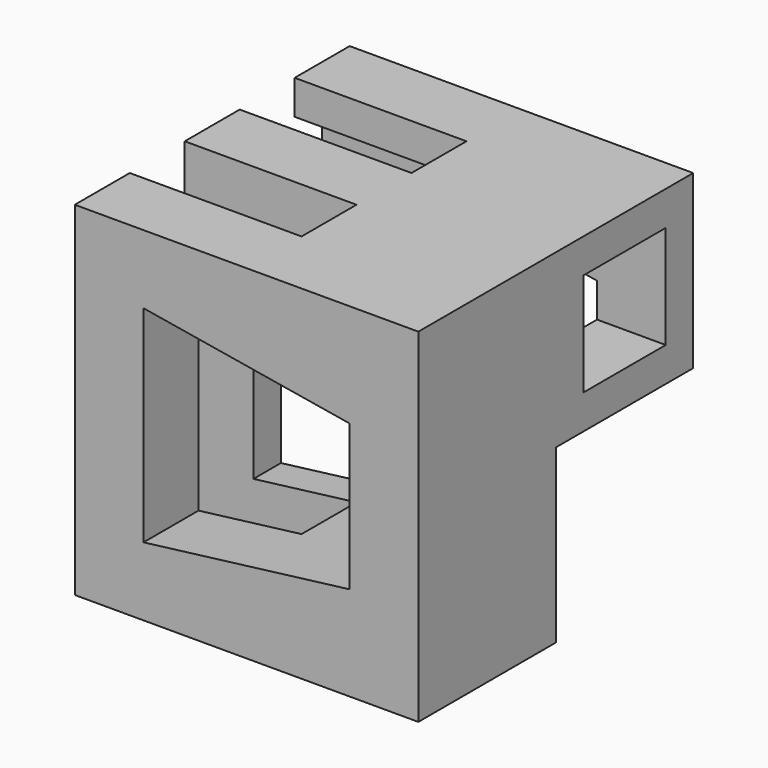
from build123d import *

# Parameters (mm, degrees)
F0_W     = 63.5
F0_H     = 63.5
F1_DEPTH = 63.5
F2_W     = 31.75
F2_H     = 12.7
F3_DEPTH = 63.5
F4_W     = 19.05
F4_H     = 19.05
F5_DEPTH = 63.5
F7_DEPTH = 63.5


with BuildPart() as f1:
    # F0 (on Top) → F1 (new body)
    with BuildSketch(Plane.XY):
        with Locations((-28.497959, -34.744633)):
            Rectangle(F0_W, F0_H)
    extrude(amount=F1_DEPTH)

    # F2 (on face) → F3 (cut)
    with BuildSketch(Plane.XY.offset(63.5)):
        with Locations((-44.372959, -47.444633)):
            Rectangle(F2_W, F2_H)
        with Locations((-44.372959, -22.044633)):
            Rectangle(F2_W, F2_H)
    extrude(amount=-F3_DEPTH, mode=Mode.SUBTRACT)

    # F4 (on face) → F5 (cut)
    with BuildSketch(Plane.YZ.offset(3.252041)):
        Polygon((-28.394633, 31.75), (-34.744633, 31.75), (-34.744633, 0), (-2.994633, 0), (-2.994633, 31.75), align=None)
        with Locations((-18.869633, 47.625)):
            Rectangle(F4_W, F4_H)
    extrude(amount=-F5_DEPTH, mode=Mode.SUBTRACT)

    # F6 (on face) → F7 (cut)
    with BuildSketch(Plane.XZ.offset(66.494633)):
        Polygon((-47.547959, 50.8), (-47.547959, 12.7), (-9.447959, 17.444041), (-9.447959, 44.424161), align=None)
    extrude(amount=-F7_DEPTH, mode=Mode.SUBTRACT)


solid = f1.part
